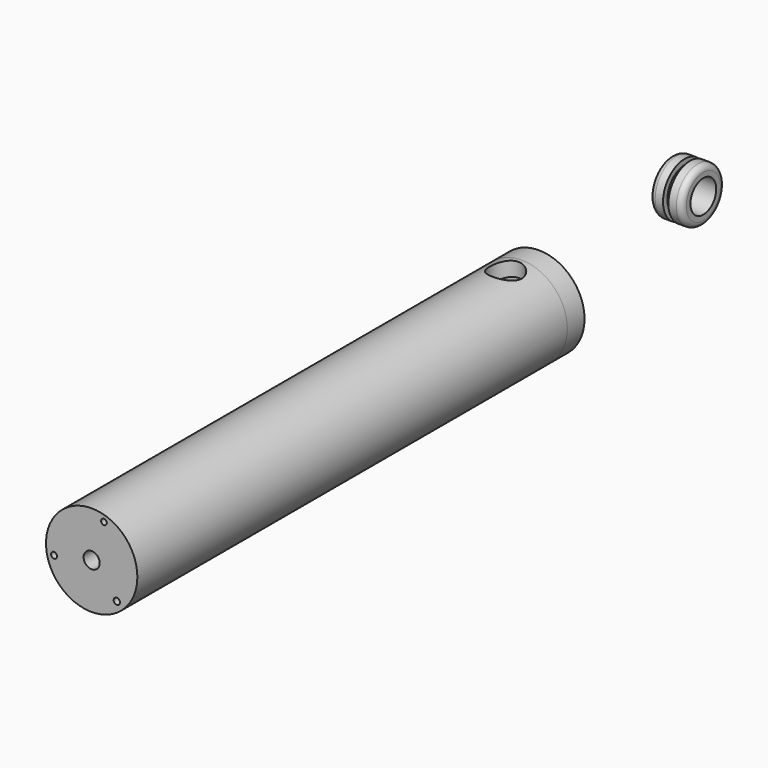
from build123d import *

# Parameters (mm, degrees)
F0_R     = 13.49375
F0_R_2   = 0.8840363217
F0_R_3   = 0.9282502006
F0_R_4   = 9.3291025
F0_R_5   = 0.8294111598
F1_DEPTH = 152.4
F2_DEPTH = 6.35
F3_R     = 13.49375
F3_R_2   = 0.8840363217
F3_R_3   = 0.9282502006
F3_R_4   = 9.3291025
F3_R_5   = 0.8294111598
F3_R_6   = 2.38125
F4_DEPTH = 6.35
F7_R     = 1.651
F9_D     = 9.525
F9_DEPTH = 13.49475
F10_D    = 9.525


with BuildPart() as f1:
    # F0 (on Front) → F1 (new body)
    with BuildSketch(Plane.XZ):
        Circle(F0_R)
        with Locations((-11.1125, -2.3467487006)):
            Circle(F0_R_2, mode=Mode.SUBTRACT)
        with Locations((7.4248356606, -8.2679786928)):
            Circle(F0_R_3, mode=Mode.SUBTRACT)
        Circle(F0_R_4, mode=Mode.SUBTRACT)
        with Locations((3.6268509209, 11.1125)):
            Circle(F0_R_5, mode=Mode.SUBTRACT)
    extrude(amount=F1_DEPTH)

    # F3 (on face) → F4 (join)
    with BuildSketch(Plane.XZ.offset(152.4)):
        Circle(F3_R)
        with Locations((-11.1125, -2.3467487006)):
            Circle(F3_R_2, mode=Mode.SUBTRACT)
        with Locations((7.4248356606, -8.2679786928)):
            Circle(F3_R_3, mode=Mode.SUBTRACT)
        Circle(F3_R_4, mode=Mode.SUBTRACT)
        with Locations((3.6268509209, 11.1125)):
            Circle(F3_R_5, mode=Mode.SUBTRACT)
        Circle(F3_R_4)
        Circle(F3_R_6, mode=Mode.SUBTRACT)
    extrude(amount=F4_DEPTH)

    # F9 (through all, one way)
    with BuildSketch(Plane(origin=(0, 0, 0), x_dir=(1, 0, 0), z_dir=(0, 0, -1))):
        with Locations((0, 5.9203383362)):
            Circle(F9_D / 2)
    extrude(amount=-F9_DEPTH, mode=Mode.SUBTRACT)

    # F10 (through all)
    with Locations(Plane.XY):
        with Locations((0, -5.9203383362)):
            Hole(F10_D / 2)


with BuildPart() as f2:
    # F0 (on Front) → F2 (new body)
    with BuildSketch(Plane.XZ):
        Circle(F0_R)
        with Locations((-11.1125, -2.3467487006)):
            Circle(F0_R_2, mode=Mode.SUBTRACT)
        with Locations((7.4248356606, -8.2679786928)):
            Circle(F0_R_3, mode=Mode.SUBTRACT)
        Circle(F0_R_4, mode=Mode.SUBTRACT)
        with Locations((3.6268509209, 11.1125)):
            Circle(F0_R_5, mode=Mode.SUBTRACT)
        Circle(F0_R_4)
    extrude(amount=-F2_DEPTH)


with BuildPart() as f6:
    # F5 (on Front) → F6 (revolve)
    with BuildSketch(Plane.XZ):
        Polygon((44.1381960511, 52.2710782051), (53.6631960511, 52.2710782051), (53.6631960511, 55.4460782051), (49.6944460511, 55.4460782051), (49.6944460511, 53.8585782051), (48.1069460511, 53.8585782051), (48.1069460511, 55.4460782051), (44.1381960511, 55.4460782051), align=None)
    revolve(axis=Axis((57.510222998, 0, 47.5085782051), (1, 0, 0)))

    # F7
    f7_edges = [f6.edges().sort_by_distance(p)[0] for p in [
        (44.138196, 0, 39.571078),
        (53.663196, 0, 39.571078),
    ]]
    fillet(f7_edges, radius=F7_R)


solid = Compound([f1.part, f2.part, f6.part])
